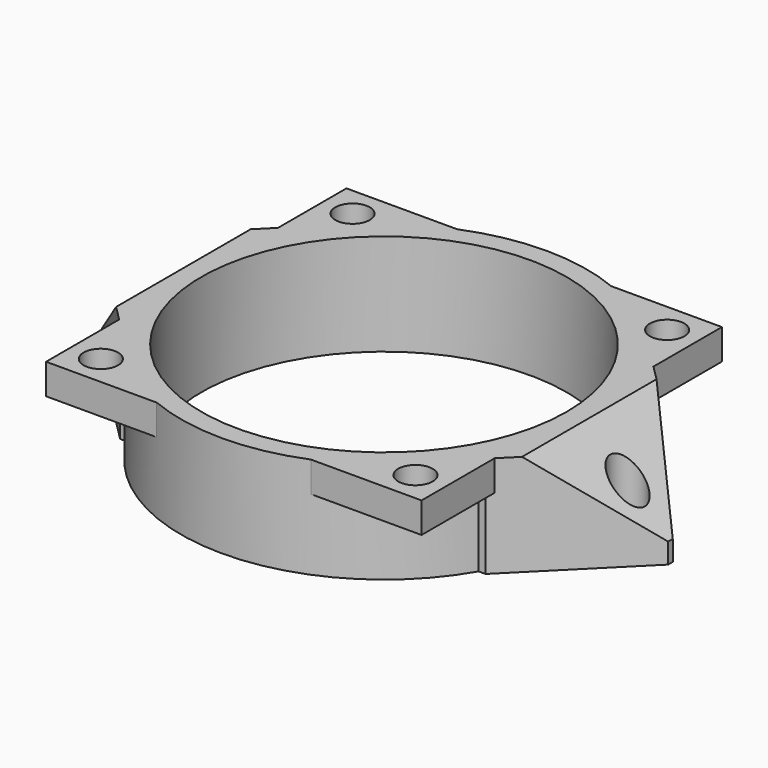
from build123d import *

# Parameters (mm, degrees)
CYLINDER004_R          = 18
CYLINDER004_DEPTH      = 10
CYLINDER002_R          = 1.7
CYLINDER002_DEPTH      = 10
CYLINDER001_R          = 1.7
CYLINDER001_DEPTH      = 10
CYLINDER003_R          = 1.7
CYLINDER003_DEPTH      = 10
CYLINDER_R             = 1.7
CYLINDER_DEPTH         = 10
BOX_W                  = 37
BOX_H                  = 37
BOX_DEPTH              = 3
CYLINDER005_R          = 20
CYLINDER005_DEPTH      = 10
CYLINDER006_R          = 1.7
CYLINDER006_DEPTH      = 10
CYLINDER007_R          = 1.7
CYLINDER007_DEPTH      = 10
BOX004_W               = 20
BOX004_H               = 20
BOX004_DEPTH           = 10
BOX004_PITCH_ANGLE     = -44.999934
BOX003_W               = 20
BOX003_H               = 20
BOX003_DEPTH           = 10
BOX003_PITCH_ANGLE     = 44.999934
BOX002_W               = 56
BOX002_H               = 20
BOX002_DEPTH           = 10
BOX001_W               = 40
BOX001_H               = 40
BOX001_DEPTH           = 10
BOX001_PLACEMENT_ANGLE = 44.999934


with BuildPart() as obj1:
    # Cylinder004 → Cylinder004 (new body)
    with BuildSketch(Plane.XY):
        Circle(CYLINDER004_R)
    extrude(amount=CYLINDER004_DEPTH)


with BuildPart() as cylinder002:
    # Cylinder002 → Cylinder002 (new body)
    with BuildSketch(Plane(origin=(31, 31, 0), x_dir=(1, 0, 0), z_dir=(0, 0, 1))):
        Circle(CYLINDER002_R)
    extrude(amount=CYLINDER002_DEPTH)


with BuildPart() as cylinder001:
    # Cylinder001 → Cylinder001 (new body)
    with BuildSketch(Plane(origin=(31, 0, 0), x_dir=(1, 0, 0), z_dir=(0, 0, 1))):
        Circle(CYLINDER001_R)
    extrude(amount=CYLINDER001_DEPTH)


with BuildPart() as cylinder003:
    # Cylinder003 → Cylinder003 (new body)
    with BuildSketch(Plane(origin=(0, 31, 0), x_dir=(1, 0, 0), z_dir=(0, 0, 1))):
        Circle(CYLINDER003_R)
    extrude(amount=CYLINDER003_DEPTH)


with BuildPart() as obj2:
    # Cylinder → Cylinder (new body)
    with BuildSketch(Plane.XY):
        Circle(CYLINDER_R)
    extrude(amount=CYLINDER_DEPTH)

    # Fusion: union Cylinder002, Cylinder001, Cylinder003
    add(cylinder002.part)
    add(cylinder001.part)
    add(cylinder003.part)


with BuildPart() as obj2_1:
    # Fusion placement: moved
    add(obj2.part.moved(Location((-15.5, -15.5, 0))))


with BuildPart() as obj3:
    # Box → Box (new body)
    with BuildSketch(Plane(origin=(-18.5, -18.5, 7), x_dir=(1, 0, 0), z_dir=(0, 0, 1))):
        with Locations((18.5, 18.5)):
            Rectangle(BOX_W, BOX_H)
    extrude(amount=BOX_DEPTH)

    # Cut001: cut obj2
    add(obj2_1.part, mode=Mode.SUBTRACT)


with BuildPart() as basis:
    # Cylinder005 → Cylinder005 (new body)
    with BuildSketch(Plane.XY):
        Circle(CYLINDER005_R)
    extrude(amount=CYLINDER005_DEPTH)


with BuildPart() as cylinder006:
    # Cylinder006 → Cylinder006 (new body)
    with BuildSketch(Plane(origin=(-24, 0, 0), x_dir=(1, 0, 0), z_dir=(0, 0, 1))):
        Circle(CYLINDER006_R)
    extrude(amount=CYLINDER006_DEPTH)


with BuildPart() as obj4:
    # Cylinder007 → Cylinder007 (new body)
    with BuildSketch(Plane(origin=(24, 0, 0), x_dir=(1, 0, 0), z_dir=(0, 0, 1))):
        Circle(CYLINDER007_R)
    extrude(amount=CYLINDER007_DEPTH)

    # Fusion001: union Cylinder006
    add(cylinder006.part)


with BuildPart() as box004:
    # Box004 → Box004 (new body)
    with BuildSketch(Plane.XY):
        with Locations((10, 10)):
            Rectangle(BOX004_W, BOX004_H)
    extrude(amount=BOX004_DEPTH)


with BuildPart() as box004_1:
    # Box004 pitch: moved
    add(box004.part.rotate(Axis((0, 0, 0), (0, 1, 0)), BOX004_PITCH_ANGLE))


with BuildPart() as box004_2:
    # Box004 placement: moved
    add(box004_1.part.moved(Location((-30, -10, 0))))


with BuildPart() as obj5:
    # Box003 → Box003 (new body)
    with BuildSketch(Plane.XY):
        with Locations((10, 10)):
            Rectangle(BOX003_W, BOX003_H)
    extrude(amount=BOX003_DEPTH)


with BuildPart() as obj5_1:
    # Box003 pitch: moved
    add(obj5.part.rotate(Axis((0, 0, 0), (0, 1, 0)), BOX003_PITCH_ANGLE))


with BuildPart() as obj5_2:
    # Box003 placement: moved
    add(obj5_1.part.moved(Location((15, -10, 15))))

    # Fusion002: union Box004
    add(box004_2.part)


with BuildPart() as obj6:
    # Box002 → Box002 (new body)
    with BuildSketch(Plane(origin=(-28, -10, 0), x_dir=(1, 0, 0), z_dir=(0, 0, 1))):
        with Locations((28, 10)):
            Rectangle(BOX002_W, BOX002_H)
    extrude(amount=BOX002_DEPTH)

    # Cut: cut obj5
    add(obj5_2.part, mode=Mode.SUBTRACT)


with BuildPart() as obj7:
    # Box001 → Box001 (new body)
    with BuildSketch(Plane.XY):
        with Locations((20, 20)):
            Rectangle(BOX001_W, BOX001_H)
    extrude(amount=BOX001_DEPTH)


with BuildPart() as obj7_1:
    # Box001 placement: moved
    add(obj7.part.moved(Location((0, -28, 0))).rotate(Axis((0, -28, 0), (0, 0, 1)), BOX001_PLACEMENT_ANGLE))

    # Common: intersect obj6
    add(obj6.part, mode=Mode.INTERSECT)

    # Cut002: cut obj4
    add(obj4.part, mode=Mode.SUBTRACT)

    # Fusion003: union obj3, Basis
    add(obj3.part)
    add(basis.part)

    # Cut003: cut obj1
    add(obj1.part, mode=Mode.SUBTRACT)


solid = obj7_1.part
